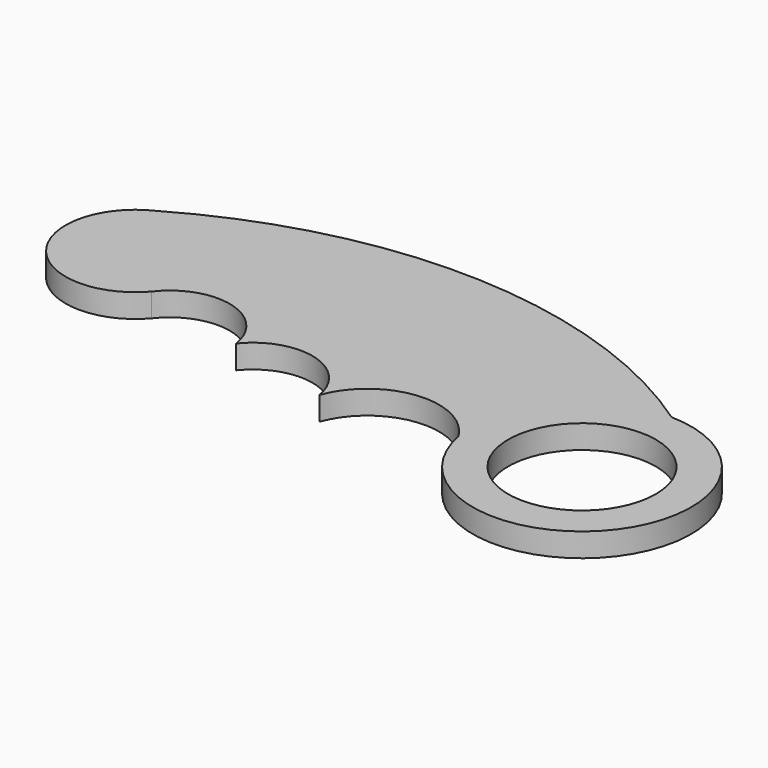
from build123d import *

# Parameters (mm, degrees)
F0_R     = 18.5
F0_R_2   = 12.5
F1_DEPTH = 4
F3_DEPTH = 4


with BuildPart() as f1:
    # F0 (on Top) → F1 (new body)
    with BuildSketch(Plane.XY):
        with Locations((47.502361, -8.813691)):
            Circle(F0_R)
        with Locations((47.502361, -8.813691)):
            Circle(F0_R_2, mode=Mode.SUBTRACT)
    extrude(amount=F1_DEPTH)

    # F2 (on Top) → F3 (join, through all)
    with BuildSketch(Plane.XY):
        with BuildLine():
            ThreePointArc((31.048742, -17.271139), (34.936347, -0.969643), (47.873986, 9.682576))
            ThreePointArc((47.873986, 9.682576), (3.387758, 24.514332), (-42.142111, 13.287727))
            ThreePointArc((-42.142111, 13.287727), (-46.639518, -4.52666), (-28.277898, -5.182404))
            ThreePointArc((-28.277898, -5.182404), (-17.735606, -1.5235), (-10.252146, -9.801502))
            ThreePointArc((-10.252146, -9.801502), (0.145162, -6.341769), (7.548284, -14.420602))
            ThreePointArc((7.548284, -14.420602), (20.429958, -6.517993), (31.048742, -17.271139))
        make_face()
    extrude(amount=F3_DEPTH)


solid = f1.part
